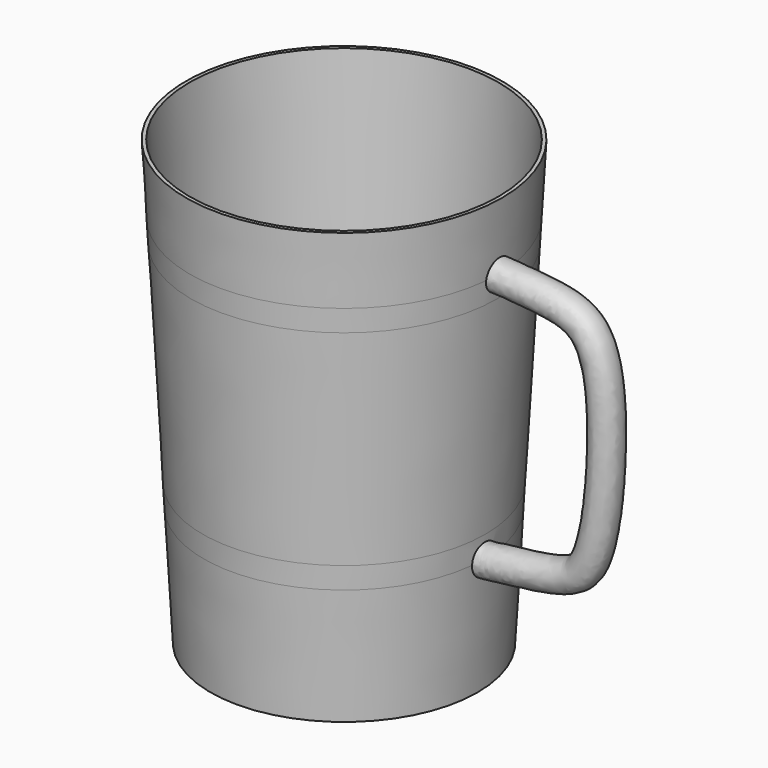
from build123d import *

# Parameters (mm, degrees)
F3_R = 4.3853298938


with BuildPart() as f1:
    # F0 (on Front) → F1 (revolve)
    with BuildSketch(Plane.XZ):
        Polygon((44.2099806775, 105.9490938586), (45.2899709793, 125.555711587), (44.2724308081, 125.555711587), (37.4149333342, 1.0616940765), (0, 1.0616940765), (0, 0), (35.287540406, 0), (35.287540406, -1.444288413), (38.2944366026, -1.444288413), (40.1810593803, 32.8062891499), (40.531485917, 39.1680862292), (43.8607326026, 99.6086910919), align=None)
    revolve(axis=Axis((0, 0, 69.7766542435), (0, 0, 1)))

    # F4: sweep along a path in F0
    with BuildLine(Plane.XZ) as f4_path:
        add(Plane.XZ * Edge.make_bspline(
            [(44.2099806775, 105.9490938586), (49.0506904174, 105.6739127968), (59.0645866106, 105.0457021821), (72.5638000505, 101.964100219), (76.7064605297, 79.0873827338), (73.2562446897, 42.9019377278), (64.6212325948, 35.2456056894), (45.068033657, 33.5123230208), (41.9423858857, 32.8326484411), (40.1810593803, 32.8062891499)],
            knots=[0, 0, 0, 0, 0.139953431, 0.2625513152, 0.4305704465, 0.6462751927, 0.7639065202, 0.9181752612, 1, 1, 1, 1], degree=3))
    # F3 (on offset) → F4 (sweep)
    with BuildSketch(Plane.XY.offset(79.756)):
        with Locations((75.1930936536, 0)):
            Circle(F3_R)
    sweep(path=f4_path.line)


solid = f1.part
